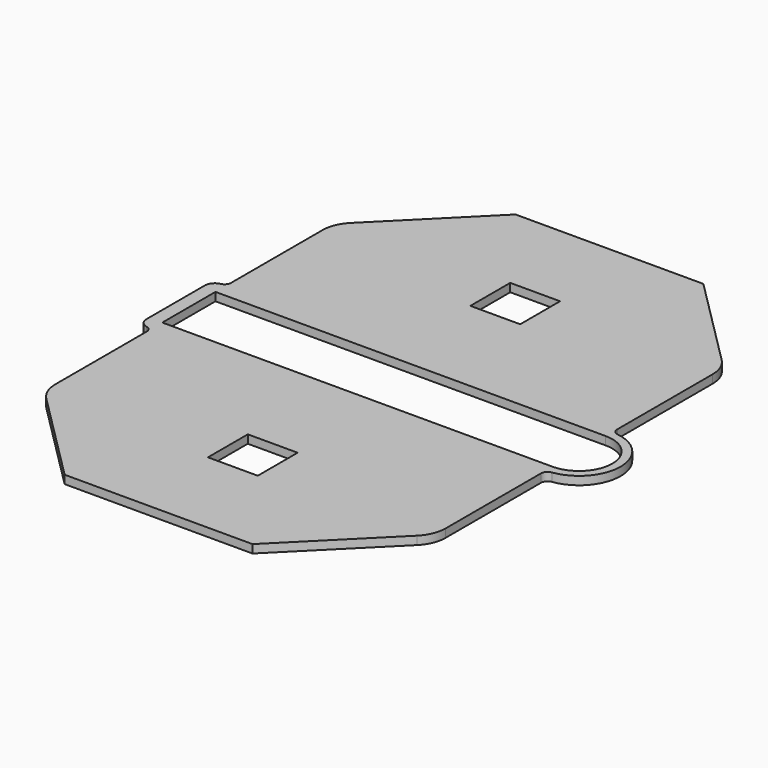
from build123d import *

# Parameters (mm, degrees)
F0_R     = 3.175
F0_W     = 38.1
F0_H     = 38.1
F1_DEPTH = 6.35
F2_R     = 25.4
F3_R     = 5.08
F4_R     = 7.62
F5_R     = 5.08


with BuildPart() as f1:
    # F0 (on Top) → F1 (new body)
    with BuildSketch(Plane.XY):
        Polygon((149.225, -25.4), (-149.225, -25.4), (-149.225, -35.56), (-149.225, -138.1431958742), (-71.8420489686, -215.5261469057), (71.8420489686, -215.5261469057), (149.225, -138.1431958742), (149.225, -31.75), align=None)
        with Locations((-101.55326548, -167.8544181521)):
            Circle(F0_R, mode=Mode.SUBTRACT)
        with Locations((-50.799996416, -157.1931958742)):
            Circle(F0_R, mode=Mode.SUBTRACT)
        with Locations((-130.175, -125.4431958742)):
            Circle(F0_R, mode=Mode.SUBTRACT)
        with Locations((0, -125.4431958742)):
            Rectangle(F0_W, F0_H, mode=Mode.SUBTRACT)
        with Locations((-50.799996416, -93.6931958742)):
            Circle(F0_R, mode=Mode.SUBTRACT)
        with Locations((-50.165, -63.5)):
            Circle(F0_R, mode=Mode.SUBTRACT)
        with Locations((50.799996416, -157.1931958742)):
            Circle(F0_R, mode=Mode.SUBTRACT)
        with Locations((101.5532683632, -167.8544152689)):
            Circle(F0_R, mode=Mode.SUBTRACT)
        with Locations((50.799996416, -93.6931958742)):
            Circle(F0_R, mode=Mode.SUBTRACT)
        with Locations((130.175, -125.4431958742)):
            Circle(F0_R, mode=Mode.SUBTRACT)
        with Locations((50.165, -63.5)):
            Circle(F0_R, mode=Mode.SUBTRACT)
        Polygon((-149.225, 35.56), (-149.225, 25.4), (149.225, 25.4), (149.225, 31.75), (149.225, 138.1431958742), (110.5335244843, 176.8346713899), (71.8420489686, 215.5261469057), (-71.8420489686, 215.5261469057), (-110.5335216011, 176.8346742731), (-149.225, 138.1431958742), align=None)
        with Locations((-50.165, 63.5)):
            Circle(F0_R, mode=Mode.SUBTRACT)
        with Locations((-130.175, 125.4431958742)):
            Circle(F0_R, mode=Mode.SUBTRACT)
        with Locations((-50.799996416, 93.6931958742)):
            Circle(F0_R, mode=Mode.SUBTRACT)
        Polygon((0, 106.3931958742), (-19.05, 106.3931958742), (-19.05, 144.4931958742), (19.05, 144.4931958742), (19.05, 106.3931958742), align=None, mode=Mode.SUBTRACT)
        with BuildLine():
            ThreePointArc((-98.37826548, 167.8544181521), (-102.7682853778, 164.9211006363), (-103.7983295103, 170.0994821823))
            ThreePointArc((-103.7983295103, 170.0994821823), (-100.3382455823, 170.7877356678), (-98.37826548, 167.8544181521))
        make_face(mode=Mode.SUBTRACT)
        with Locations((-50.799996416, 157.1931958742)):
            Circle(F0_R, mode=Mode.SUBTRACT)
        with Locations((50.165, 63.5)):
            Circle(F0_R, mode=Mode.SUBTRACT)
        with Locations((50.799996416, 93.6931958742)):
            Circle(F0_R, mode=Mode.SUBTRACT)
        with Locations((130.175, 125.4431958742)):
            Circle(F0_R, mode=Mode.SUBTRACT)
        with Locations((50.799996416, 157.1931958742)):
            Circle(F0_R, mode=Mode.SUBTRACT)
        with BuildLine():
            ThreePointArc((104.7282683632, 167.8544152689), (98.6199508475, 166.6393953711), (103.7983323935, 170.0994792991))
            ThreePointArc((103.7983323935, 170.0994792991), (104.4865858789, 169.0694351666), (104.7282683632, 167.8544152689))
        make_face(mode=Mode.SUBTRACT)
        Polygon((-149.225, -35.56), (-149.225, -25.4), (-149.225, 25.4), (-149.225, 35.56), (-159.385, 35.56), (-159.385, -35.56), align=None)
        with BuildLine():
            ThreePointArc((149.225, 25.4), (174.625, 0), (149.225, -25.4))
            Line((149.225, -25.4), (149.225, -31.75))
            ThreePointArc((149.225, -31.75), (180.975, 0), (149.225, 31.75))
            Line((149.225, 31.75), (149.225, 25.4))
        make_face()
        with Locations((-130.175, -125.4431958742)):
            Circle(F0_R)
        with Locations((-101.55326548, -167.8544181521)):
            Circle(F0_R)
        with Locations((-50.165, -63.5)):
            Circle(F0_R)
        with Locations((-50.799996416, -93.6931958742)):
            Circle(F0_R)
        with Locations((-50.799996416, -157.1931958742)):
            Circle(F0_R)
        with Locations((50.165, -63.5)):
            Circle(F0_R)
        with Locations((50.799996416, -93.6931958742)):
            Circle(F0_R)
        with Locations((50.799996416, -157.1931958742)):
            Circle(F0_R)
        with Locations((101.5532683632, -167.8544152689)):
            Circle(F0_R)
        with Locations((130.175, -125.4431958742)):
            Circle(F0_R)
        with Locations((-130.175, 125.4431958742)):
            Circle(F0_R)
        with Locations((-50.799996416, 93.6931958742)):
            Circle(F0_R)
        with Locations((-50.165, 63.5)):
            Circle(F0_R)
        with Locations((50.165, 63.5)):
            Circle(F0_R)
        with Locations((50.799996416, 93.6931958742)):
            Circle(F0_R)
        with Locations((50.799996416, 157.1931958742)):
            Circle(F0_R)
        with Locations((-50.799996416, 157.1931958742)):
            Circle(F0_R)
        with BuildLine():
            ThreePointArc((-98.37826548, 167.8544181521), (-100.3382455823, 170.7877356678), (-103.7983295103, 170.0994821823))
            ThreePointArc((-103.7983295103, 170.0994821823), (-102.7682853778, 164.9211006363), (-98.37826548, 167.8544181521))
        make_face()
        with BuildLine():
            ThreePointArc((104.7282683632, 167.8544152689), (104.4865858789, 169.0694351666), (103.7983323935, 170.0994792991))
            ThreePointArc((103.7983323935, 170.0994792991), (98.6199508475, 166.6393953711), (104.7282683632, 167.8544152689))
        make_face()
        with Locations((130.175, 125.4431958742)):
            Circle(F0_R)
    extrude(amount=F1_DEPTH)

    # F2
    f2_edges = [f1.edges().sort_by_distance(p)[0] for p in [
        (149.225, -138.143196, 3.175),
        (-149.225, -138.143196, 3.175),
        (149.225, 138.143196, 3.175),
        (-149.225, 138.143196, 3.175),
    ]]
    fillet(f2_edges, radius=F2_R)

    # F3
    f3_edges = [f1.edges().sort_by_distance(p)[0] for p in [
        (149.225, -31.75, 3.175),
        (149.225, 31.75, 3.175),
    ]]
    fillet(f3_edges, radius=F3_R)

    # F4
    f4_edges = [f1.edges().sort_by_distance(p)[0] for p in [
        (-159.385, -35.56, 3.175),
        (-159.385, 35.56, 3.175),
    ]]
    fillet(f4_edges, radius=F4_R)

    # F5
    f5_edges = [f1.edges().sort_by_distance(p)[0] for p in [
        (-149.225, -35.56, 3.175),
        (-149.225, 35.56, 3.175),
    ]]
    fillet(f5_edges, radius=F5_R)


solid = f1.part
